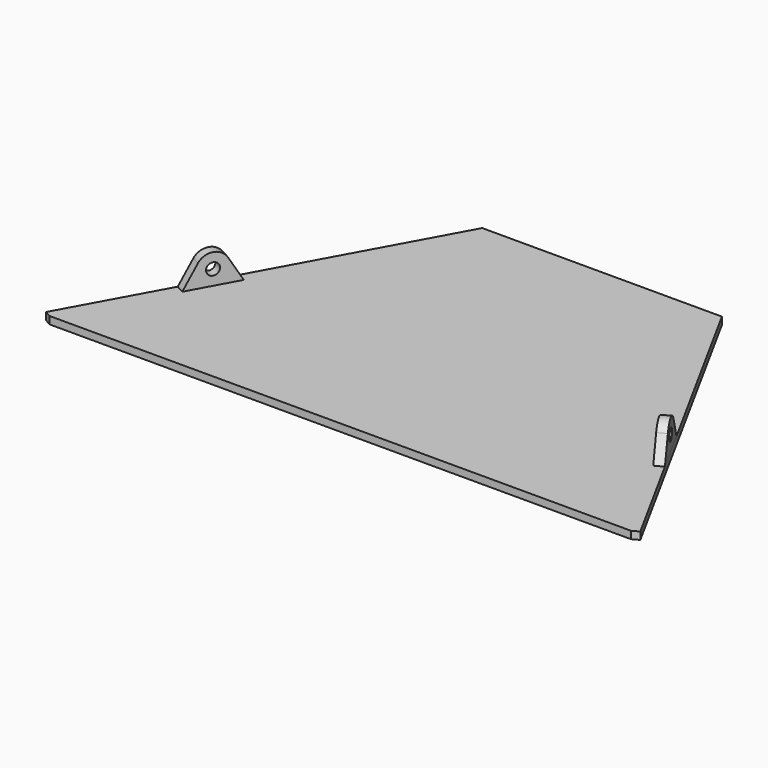
from build123d import *

# Parameters (mm, degrees)
PAD_DEPTH    = 2
SKETCH001_R  = 1.6
PAD001_DEPTH = 2.5


with BuildPart() as part:
    # Sketch → Pad (new body)
    with BuildSketch(Plane.XY):
        Polygon((-30, 0), (30, 0), (32.280434, 0), (80.027856, -87.160748), (78.273803, -88.121634), (-78.273803, -88.121634), (-80.027856, -87.160748), (-32.280434, 0), align=None)
    extrude(amount=PAD_DEPTH)

    # Sketch001 (on Face1 of Pad) → Pad001 (join)
    with BuildSketch(Plane(origin=(-24.829299, 13.601708, 0), x_dir=(-0.480443, -0.877026, 0), z_dir=(-0.877026, 0.480443, 0))):
        with BuildLine():
            Line((84.891049, 2), (70.891049, 2))
            Line((70.891049, 2), (74.444895, 8.030769))
            ThreePointArc((81.337203, 8.030769), (77.891049, 10), (74.444895, 8.030769))
            Line((84.891049, 2), (81.337203, 8.030769))
        make_face()
        with Locations((77.891049, 6)):
            Circle(SKETCH001_R, mode=Mode.SUBTRACT)
    pad001 = extrude(amount=-PAD001_DEPTH)

    # Mirrored: Pad001 across YZ
    add(pad001.mirror(Plane.YZ))


solid = part.part
